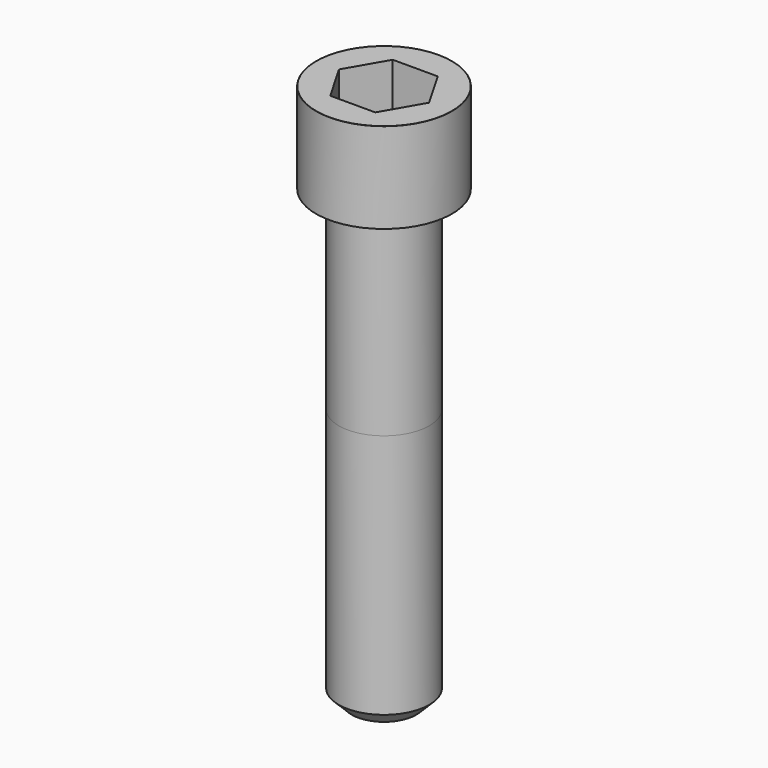
from build123d import *

# Parameters (mm, degrees)
POCKET_DEPTH = 12.07


with BuildPart() as part:
    # Sketch → Revolve (revolve)
    with BuildSketch(Plane.YZ):
        with BuildLine():
            Line((6.999, 0), (10.5, 0))
            Line((10.5, 0), (10.5, 13.97229))
            ThreePointArc((10.5, 13.97229), (10.491884, 13.991884), (10.47229, 14))
            Line((10.47229, 14), (0, 14))
            Line((0, -70), (0, 14))
            Line((5, -70), (0, -70))
            Line((7, -68), (5, -70))
            Line((7, -30), (7, -68))
            Line((6.999, 0), (7, -30))
        make_face()
    revolve(axis=Axis((0, 0, 0), (0, 0, 1)))

    # Sketch001 → Pocket (cut)
    with BuildSketch(Plane.XY.offset(14)):
        Polygon((6.968618, 0), (3.484309, 6.035), (-3.484309, 6.035), (-6.968618, 0), (-3.484309, -6.035), (3.484309, -6.035), align=None)
    extrude(amount=-POCKET_DEPTH, mode=Mode.SUBTRACT)


solid = part.part
